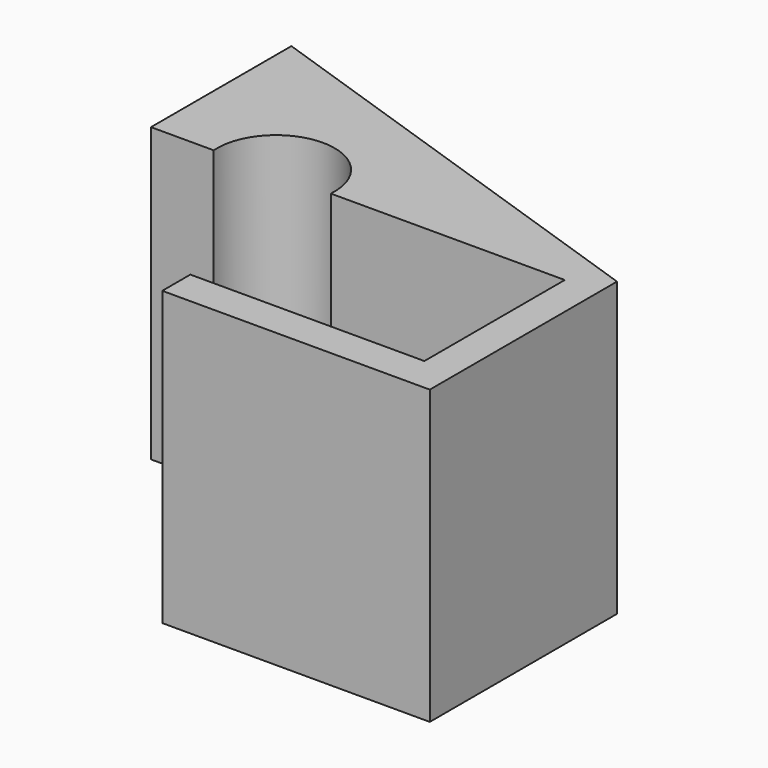
from build123d import *

# Parameters (mm, degrees)
F1_DEPTH = 25


with BuildPart() as f1:
    # F0 (on Top) → F1 (new body)
    with BuildSketch(Plane.XY):
        with BuildLine():
            ThreePointArc((-49.834719, -13.743161), (-44.834719, -8.331543), (-39.834719, -13.743161))
            Line((-39.834719, -13.743161), (-19.834719, -13.743161))
            Line((-19.834719, -13.743161), (-19.834719, -28.743161))
            Line((-19.834719, -28.743161), (-39.834719, -28.743161))
            Line((-39.834719, -28.743161), (-39.834719, -31.743161))
            Line((-39.834719, -31.743161), (-19.971046, -31.743161))
            Line((-19.971046, -31.743161), (-16.971046, -31.743161))
            Line((-16.971046, -31.743161), (-16.971046, -11.743161))
            Line((-16.971046, -11.743161), (-55.198664, 1.256839))
            Line((-55.198664, 1.256839), (-55.198664, -13.743161))
            Line((-55.198664, -13.743161), (-49.834719, -13.743161))
        make_face()
    extrude(amount=F1_DEPTH)


solid = f1.part
